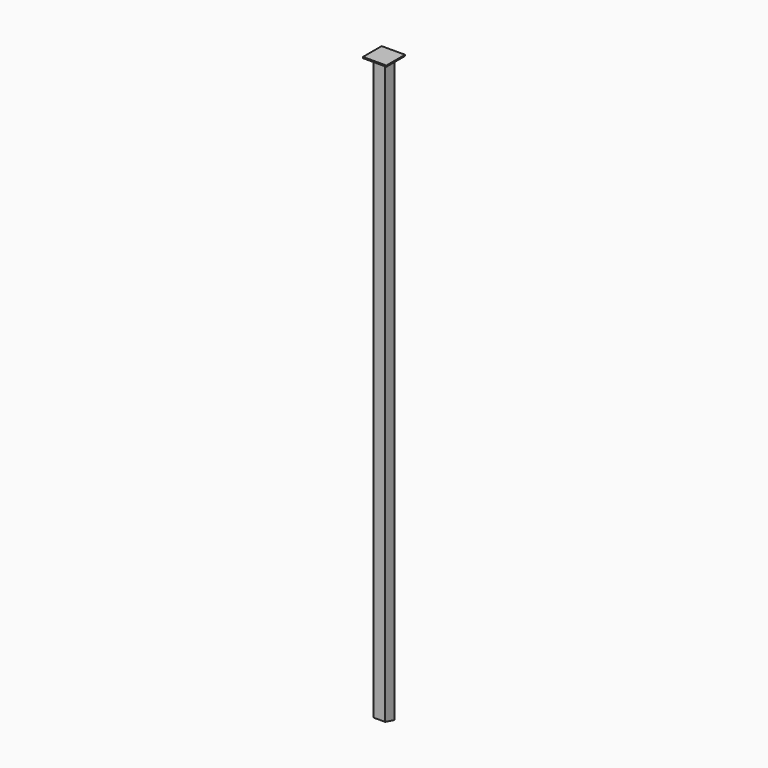
from build123d import *

# Parameters (mm, degrees)
F0_W     = 50
F0_H     = 50
F0_W_2   = 42
F0_H_2   = 42
F1_DEPTH = 2500
F2_W     = 100
F2_H     = 100
F2_W_2   = 50
F2_H_2   = 50
F2_W_3   = 42
F2_H_3   = 42
F3_DEPTH = 5
F5_DEPTH = 50


with BuildPart() as f1:
    # F0 (on Top) → F1 (new body)
    with BuildSketch(Plane.XY):
        Rectangle(F0_W, F0_H)
        Rectangle(F0_W_2, F0_H_2, mode=Mode.SUBTRACT)
    extrude(amount=F1_DEPTH)

    # F2 (on face) → F3 (join)
    with BuildSketch(Plane.XY.offset(2500)):
        Rectangle(F2_W, F2_H)
        Rectangle(F2_W_2, F2_H_2, mode=Mode.SUBTRACT)
        Rectangle(F2_W_2, F2_H_2)
        Rectangle(F2_W_3, F2_H_3, mode=Mode.SUBTRACT)
        Rectangle(F2_W_3, F2_H_3)
    extrude(amount=F3_DEPTH)

    # F4 (on face) → F5 (cut)
    with BuildSketch(Plane(origin=(-25, 0, 0), x_dir=(0, -1, 0), z_dir=(-1, 0, 0))):
        Polygon((25, 13.0892765136), (-25, 0), (25, 0), align=None)
    extrude(amount=-F5_DEPTH, mode=Mode.SUBTRACT)


solid = f1.part
